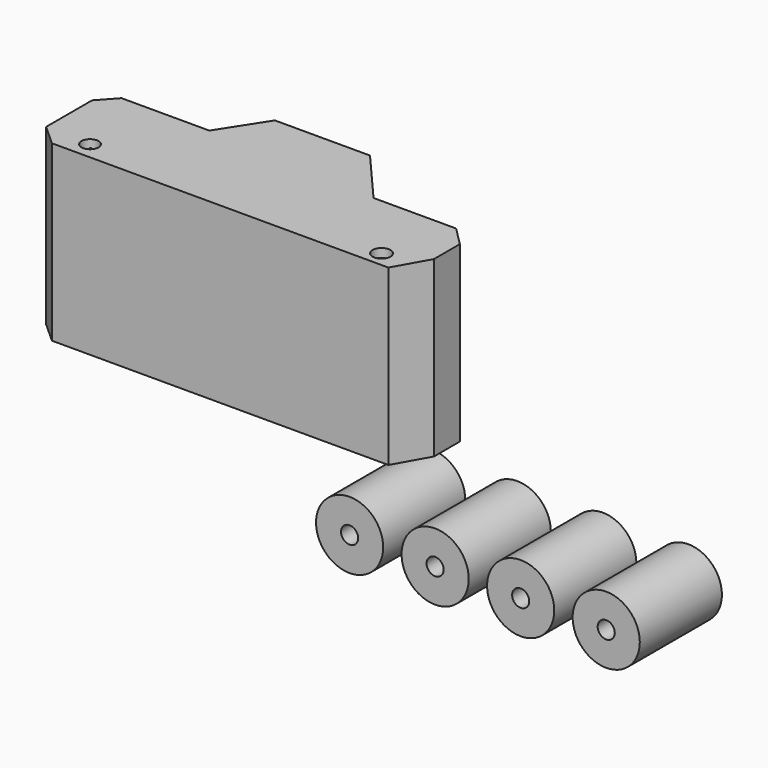
from build123d import *

# Parameters (mm, degrees)
F1_DEPTH = 25.4
F2_T     = -2.54
F3_R     = 2.630381548
F3_R_2   = 2.5
F3_R_3   = 0.25
F4_DEPTH = 80
F5_R     = 9.8138712701
F5_R_2   = 2.5
F6_DEPTH = 30
F7_T     = -2.5
F7_2_T   = -2.5
F7_3_T   = -2.5
F7_4_T   = -2.5


with BuildPart() as f1:
    # F0 (on Top) → F1 (new body, symmetric)
    with BuildSketch(Plane.XY):
        Polygon((-45.0437963009, -21.8347907066), (-38.9361642301, -27.3316595703), (59.3967363238, -27.3316595703), (64.8936107755, -17.5594463944), (64.8936107755, -8.0926148221), (59.3967363238, -2.5957443286), (35.2715887129, -2.5957443286), (21.5294081718, 13.2841039449), (-6.2603242695, 13.2841039449), (-14.8110119626, 0), (-40.4630713165, 0), (-45.0437963009, -5.0387978554), (-45.0437963009, -14.5056294277), align=None)
    extrude(amount=F1_DEPTH, both=True)

    # F2
    f2_openings = [f1.faces().sort_by_distance(p)[0] for p in [
        (7.634542, 13.284104, 0),
        (-10.535668, 6.642052, 0),
        (-27.637042, 0, 0),
        (28.400498, 5.34418, 0),
        (47.334163, -2.595744, 0),
    ]]
    offset(amount=F2_T, openings=f2_openings)

    # F3 (on face) → F4 (cut)
    with BuildSketch(Plane(origin=(0, 0, -25.4), x_dir=(1, 0, 0), z_dir=(0, 0, -1))):
        with Locations((53.7799447775, 22.8211097419)):
            Circle(F3_R)
        with Locations((-31.8573266268, 22.2703870386)):
            Circle(F3_R_2)
        with Locations((-30.4541640157, 23.8408566253)):
            Circle(F3_R_3, mode=Mode.SUBTRACT)
    extrude(amount=-F4_DEPTH, mode=Mode.SUBTRACT)


with BuildPart() as f6:
    # F5 (on face) → F6 (new body)
    with BuildSketch(Plane.XZ.offset(27.3316595703)):
        with Locations((123.0588823557, -47.0845066011)):
            Circle(F5_R)
        with Locations((123.0588823557, -47.0845066011)):
            Circle(F5_R_2, mode=Mode.SUBTRACT)
    extrude(amount=-F6_DEPTH)

    # F7
    f7_openings = [f6.faces().sort_by_distance(p)[0] for p in [
        (113.522589, 2.66834, -47.084507),
    ]]
    offset(amount=F7_T, openings=f7_openings)


with BuildPart() as f6b:
    # F5 (on face) → F6, piece 2 (new body)
    with BuildSketch(Plane.XZ.offset(27.3316595703)):
        with Locations((98.0588823557, -47.0845066011)):
            Circle(F5_R)
        with Locations((98.0588823557, -47.0845066011)):
            Circle(F5_R_2, mode=Mode.SUBTRACT)
    extrude(amount=-F6_DEPTH)

    # F7#2
    f7_2_openings = [f6b.faces().sort_by_distance(p)[0] for p in [
        (88.522589, 2.66834, -47.084507),
    ]]
    offset(amount=F7_2_T, openings=f7_2_openings)


with BuildPart() as f6c:
    # F5 (on face) → F6, piece 3 (new body)
    with BuildSketch(Plane.XZ.offset(27.3316595703)):
        with Locations((73.0588823557, -47.0845066011)):
            Circle(F5_R)
        with Locations((73.0588823557, -47.0845066011)):
            Circle(F5_R_2, mode=Mode.SUBTRACT)
    extrude(amount=-F6_DEPTH)

    # F7#3
    f7_3_openings = [f6c.faces().sort_by_distance(p)[0] for p in [
        (63.522589, 2.66834, -47.084507),
    ]]
    offset(amount=F7_3_T, openings=f7_3_openings)


with BuildPart() as f6d:
    # F5 (on face) → F6, piece 4 (new body)
    with BuildSketch(Plane.XZ.offset(27.3316595703)):
        with Locations((48.0588823557, -47.0845066011)):
            Circle(F5_R)
        with Locations((48.0588823557, -47.0845066011)):
            Circle(F5_R_2, mode=Mode.SUBTRACT)
    extrude(amount=-F6_DEPTH)

    # F7#4
    f7_4_openings = [f6d.faces().sort_by_distance(p)[0] for p in [
        (38.522589, 2.66834, -47.084507),
    ]]
    offset(amount=F7_4_T, openings=f7_4_openings)


solid = Compound([f1.part, f6.part, f6b.part, f6c.part, f6d.part])
